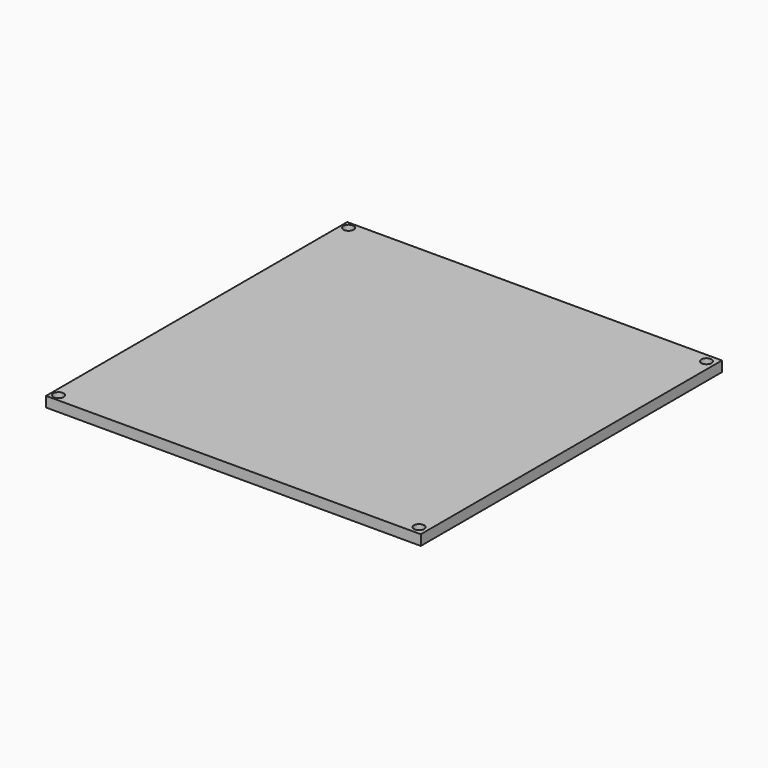
from build123d import *

# Parameters (mm, degrees)
F0_W     = 218
F0_H     = 219
F1_DEPTH = 6
F3_DEPTH = 6
F4_R     = 3
F5_DEPTH = 3.5


with BuildPart() as f1:
    # F0 (on Top) → F1 (new body)
    with BuildSketch(Plane.XY):
        Rectangle(F0_W, F0_H)
    extrude(amount=F1_DEPTH)

    # F2 (on face) → F3 (cut, through all)
    with BuildSketch(Plane.XY.offset(6)):
        with BuildLine():
            ThreePointArc((-103.477169, 105.458716), (-104.401559, 106.843877), (-106.035399, 106.5218))
            Line((-106.035399, 106.5218), (-103.918939, 104.395631))
            ThreePointArc((-103.918939, 104.395631), (-103.592007, 104.883105), (-103.477169, 105.458716))
        make_face()
        with BuildLine():
            ThreePointArc((105.081061, 105.563085), (102.959747, 105.55823), (102.964601, 103.436915))
            Line((102.964601, 103.436915), (105.081061, 105.563085))
        make_face()
        with BuildLine():
            Line((105.081061, 105.563085), (102.964601, 103.436915))
            ThreePointArc((102.964601, 103.436915), (104.598441, 103.114838), (105.522831, 104.5))
            ThreePointArc((105.522831, 104.5), (105.407993, 105.07561), (105.081061, 105.563085))
        make_face()
        with BuildLine():
            ThreePointArc((105.522831, -104.5), (104.598441, -103.114838), (102.964601, -103.436915))
            Line((102.964601, -103.436915), (105.081061, -105.563085))
            ThreePointArc((105.081061, -105.563085), (105.407993, -105.07561), (105.522831, -104.5))
        make_face()
        with BuildLine():
            Line((105.081061, -105.563085), (102.964601, -103.436915))
            ThreePointArc((102.964601, -103.436915), (102.959747, -105.55823), (105.081061, -105.563085))
        make_face()
        with BuildLine():
            ThreePointArc((-103.477169, -105.458716), (-103.592007, -104.883105), (-103.918939, -104.395631))
            Line((-103.918939, -104.395631), (-106.035399, -106.5218))
            ThreePointArc((-106.035399, -106.5218), (-104.401559, -106.843877), (-103.477169, -105.458716))
        make_face()
        with BuildLine():
            Line((-106.035399, -106.5218), (-103.918939, -104.395631))
            ThreePointArc((-103.918939, -104.395631), (-106.040253, -104.400485), (-106.035399, -106.5218))
        make_face()
        with BuildLine():
            Line((-103.918939, 104.395631), (-106.035399, 106.5218))
            ThreePointArc((-106.035399, 106.5218), (-106.040253, 104.400485), (-103.918939, 104.395631))
        make_face()
    extrude(amount=-F3_DEPTH, mode=Mode.SUBTRACT)

    # F4 (on face) → F5 (cut)
    with BuildSketch(Plane.XY.offset(6)):
        with Locations((-104.977169, 105.458716)):
            Circle(F4_R)
        with Locations((104.022831, 104.5)):
            Circle(F4_R)
        with Locations((104.022831, -104.5)):
            Circle(F4_R)
        with Locations((-104.977169, -105.458716)):
            Circle(F4_R)
    extrude(amount=-F5_DEPTH, mode=Mode.SUBTRACT)


solid = f1.part
